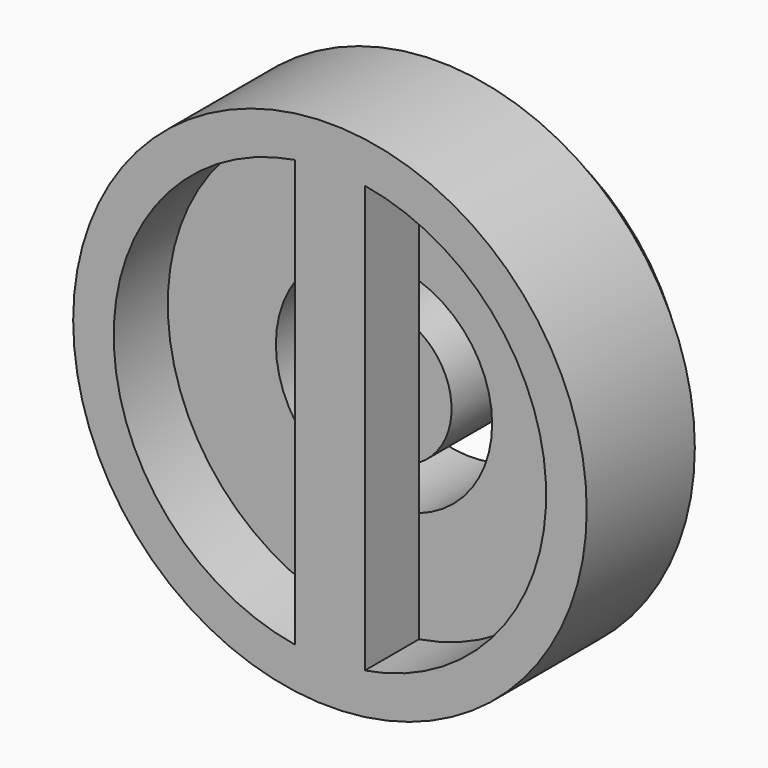
from build123d import *

# Parameters (mm, degrees)
F0_R        = 9.5
F0_R_2      = 8
F1_DEPTH    = 2.5
F2_W        = 2.5811996311
F2_H        = 16.6603792459
F1_FACE_R   = 9.5
F1_FACE_R_2 = 8
F3_DEPTH    = 2.5
F0_R_3      = 4
F4_DEPTH    = 4
F7_START    = -20.3
F6_R        = 2.5
F7_DEPTH    = 4.7


with BuildPart() as f1:
    # F0 (on Front) → F1 (new body, symmetric)
    with BuildSketch(Plane.XZ):
        Circle(F0_R)
        Circle(F0_R_2, mode=Mode.SUBTRACT)
    extrude(amount=F1_DEPTH, both=True)

    # F2 (on Front) + F1_face (on face) → F3 (join)
    with BuildSketch(Plane.XZ):
        Rectangle(F2_W, F2_H)
    with BuildSketch(Plane(origin=(0, 2.5, 0), x_dir=(1, 0, 0), z_dir=(0, 1, 0))):
        Circle(F1_FACE_R)
        Circle(F1_FACE_R_2, mode=Mode.SUBTRACT)
    extrude(amount=F3_DEPTH, dir=(0, -1, 0))

    # F0 (on Front) → F4 (join)
    with BuildSketch(Plane.XZ):
        Circle(F0_R_2)
        Circle(F0_R_3, mode=Mode.SUBTRACT)
    extrude(amount=-F4_DEPTH)

    # F6 (on offset) → F7 (join)
    with BuildSketch(Plane(origin=(0, 25, 0), x_dir=(-1, 0, 0), z_dir=(0, 1, 0)).offset(F7_START)):
        Circle(F6_R)
    extrude(amount=-F7_DEPTH)


solid = f1.part
